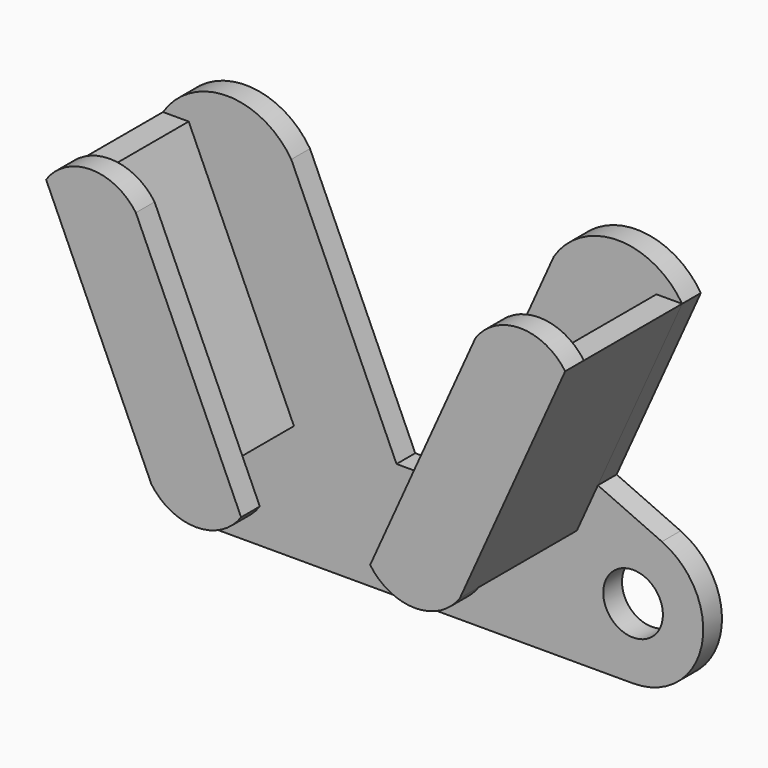
from build123d import *

# Parameters (mm, degrees)
SKETCH_R     = 2.55
PAD_DEPTH    = 2
PAD001_DEPTH = 10.5
PAD002_DEPTH = 2


with BuildPart() as part:
    # Sketch → Pad (new body)
    with BuildSketch(Plane.XZ):
        with BuildLine():
            Line((-22.193171, 20), (-14.990659, 3.994417))
            Line((-14.990659, 3.994417), (-20.462188, 1.532229))
            ThreePointArc((-20.462188, 1.532229), (-23.866395, -5.198432), (-18, -9.9393))
            Line((-18, -9.9393), (18, -9.9393))
            ThreePointArc((18, -9.9393), (23.866395, -5.198432), (20.462188, 1.532229))
            Line((14.990659, 3.994417), (20.462188, 1.532229))
            Line((22.193171, 20), (14.990659, 3.994417))
            ThreePointArc((22.193171, 20), (16.710243, 23), (11.227315, 20))
            Line((11.227315, 20), (2.227315, 0))
            Line((-2.227315, 0), (2.227315, 0))
            Line((-11.227315, 20), (-2.227315, 0))
            ThreePointArc((-11.227315, 20), (-16.710243, 23), (-22.193171, 20))
        make_face()
        with Locations((-18, -3.9393)):
            Circle(SKETCH_R, mode=Mode.SUBTRACT)
        with Locations((18, -3.9393)):
            Circle(SKETCH_R, mode=Mode.SUBTRACT)
    extrude(amount=PAD_DEPTH)

    # Sketch001 (on Face16 of Pad) → Pad001 (join)
    with BuildSketch(Plane.XZ.offset(2)):
        Polygon((-20, 20), (-11, 0), (-13.193171, 0), (-22.193171, 20), align=None)
        Polygon((20, 20), (11, 0), (13.193171, 0), (22.193171, 20), align=None)
    extrude(amount=PAD001_DEPTH)

    # Sketch002 (on Face25 of Pad001) → Pad002 (join)
    with BuildSketch(Plane.XZ.offset(12.5)):
        with BuildLine():
            Line((-22.193171, 20), (-13.193171, 0))
            ThreePointArc((-13.193171, 0), (-9.355122, -2), (-5.517072, 0))
            Line((-14.517072, 20), (-5.517072, 0))
            ThreePointArc((-14.517072, 20), (-18.355122, 22), (-22.193171, 20))
        make_face()
        with BuildLine():
            Line((22.193171, 20), (13.193171, 0))
            ThreePointArc((5.517072, 0), (9.355122, -2), (13.193171, 0))
            Line((14.517072, 20), (5.517072, 0))
            ThreePointArc((22.193171, 20), (18.355122, 22), (14.517072, 20))
        make_face()
    extrude(amount=PAD002_DEPTH)


solid = part.part
